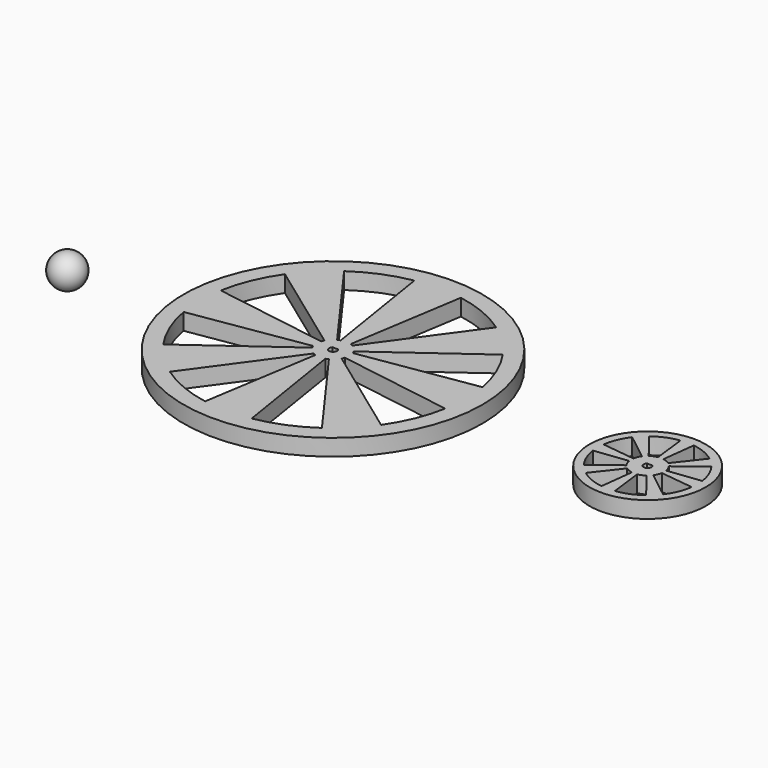
from build123d import *

# Parameters (mm, degrees)
F0_R     = 57.15
F1_DEPTH = 6.35
F0_R_2   = 22.225


with BuildPart() as f1:
    # F0 (on Top) → F1 (new body)
    with BuildSketch(Plane.XY):
        Circle(F0_R)
        with BuildLine():
            ThreePointArc((41.6528860865, 29.080527517), (46.9330802516, 19.4403183641), (50.0160764155, 8.89))
            ThreePointArc((50.0160764155, 8.89), (50.6036396018, 4.4622482054), (50.8, 0))
            ThreePointArc((50.8, 0), (50.6036396018, -4.4622482054), (50.0160764155, -8.89))
            ThreePointArc((50.0160764155, -8.89), (46.9330802516, -19.4403183641), (41.6528860865, -29.080527517))
            ThreePointArc((41.6528860865, -29.080527517), (35.9210244843, -35.9210244843), (29.080527517, -41.6528860865))
            ThreePointArc((29.080527517, -41.6528860865), (19.4403183641, -46.9330802516), (8.89, -50.0160764155))
            ThreePointArc((8.89, -50.0160764155), (0, -50.8), (-8.89, -50.0160764155))
            ThreePointArc((-8.89, -50.0160764155), (-19.4403183641, -46.9330802516), (-29.080527517, -41.6528860865))
            ThreePointArc((-29.080527517, -41.6528860865), (-35.9210244843, -35.9210244843), (-41.6528860865, -29.080527517))
            ThreePointArc((-41.6528860865, -29.080527517), (-46.9330802516, -19.4403183641), (-50.0160764155, -8.89))
            ThreePointArc((-50.0160764155, -8.89), (-50.8, 0), (-50.0160764155, 8.89))
            ThreePointArc((-50.0160764155, 8.89), (-46.9330802516, 19.4403183641), (-41.6528860865, 29.080527517))
            ThreePointArc((-41.6528860865, 29.080527517), (-35.9210244843, 35.9210244843), (-29.080527517, 41.6528860865))
            ThreePointArc((-29.080527517, 41.6528860865), (-19.4403183641, 46.9330802516), (-8.89, 50.0160764155))
            ThreePointArc((-8.89, 50.0160764155), (0, 50.8), (8.89, 50.0160764155))
            ThreePointArc((8.89, 50.0160764155), (19.4403183641, 46.9330802516), (29.080527517, 41.6528860865))
            ThreePointArc((29.080527517, 41.6528860865), (35.9210244843, 35.9210244843), (41.6528860865, 29.080527517))
        make_face(mode=Mode.SUBTRACT)
        with BuildLine():
            ThreePointArc((-5.6303475945, 2.9362707582), (-4.4901280605, 4.4901280605), (-2.9362707582, 5.6303475945))
            Line((-2.9362707582, 5.6303475945), (-29.080527517, 41.6528860865))
            ThreePointArc((-29.080527517, 41.6528860865), (-35.9210244843, 35.9210244843), (-41.6528860865, 29.080527517))
            Line((-41.6528860865, 29.080527517), (-5.6303475945, 2.9362707582))
        make_face()
        with BuildLine():
            ThreePointArc((6.057513929, -1.905), (6.2764525589, -0.9636613904), (6.35, 0))
            ThreePointArc((6.35, 0), (6.2764525589, 0.9636613904), (6.057513929, 1.905))
            ThreePointArc((6.057513929, 1.905), (5.8666350314, 2.4300397955), (5.6303475945, 2.9362707582))
            ThreePointArc((5.6303475945, 2.9362707582), (4.4901280605, 4.4901280605), (2.9362707582, 5.6303475945))
            ThreePointArc((2.9362707582, 5.6303475945), (2.4300397955, 5.8666350314), (1.905, 6.057513929))
            ThreePointArc((1.905, 6.057513929), (0, 6.35), (-1.905, 6.057513929))
            ThreePointArc((-1.905, 6.057513929), (-2.4300397955, 5.8666350314), (-2.9362707582, 5.6303475945))
            ThreePointArc((-2.9362707582, 5.6303475945), (-4.4901280605, 4.4901280605), (-5.6303475945, 2.9362707582))
            ThreePointArc((-5.6303475945, 2.9362707582), (-5.8666350314, 2.4300397955), (-6.057513929, 1.905))
            ThreePointArc((-6.057513929, 1.905), (-6.35, 0), (-6.057513929, -1.905))
            ThreePointArc((-6.057513929, -1.905), (-5.8666350314, -2.4300397955), (-5.6303475945, -2.9362707582))
            ThreePointArc((-5.6303475945, -2.9362707582), (-4.4901280605, -4.4901280605), (-2.9362707582, -5.6303475945))
            ThreePointArc((-2.9362707582, -5.6303475945), (-2.4300397955, -5.8666350314), (-1.905, -6.057513929))
            ThreePointArc((-1.905, -6.057513929), (0, -6.35), (1.905, -6.057513929))
            ThreePointArc((1.905, -6.057513929), (2.4300397955, -5.8666350314), (2.9362707582, -5.6303475945))
            ThreePointArc((2.9362707582, -5.6303475945), (4.4901280605, -4.4901280605), (5.6303475945, -2.9362707582))
            ThreePointArc((5.6303475945, -2.9362707582), (5.8666350314, -2.4300397955), (6.057513929, -1.905))
        make_face()
        with BuildLine():
            ThreePointArc((1.0778522248, 1.05029), (1.3940925737, 0.5669042233), (1.50495, 0))
            ThreePointArc((1.50495, 0), (-0.5669042233, -1.3940925737), (-1.0778522248, 1.05029))
            ThreePointArc((-1.0778522248, 1.05029), (0, 1.50495), (1.0778522248, 1.05029))
        make_face(mode=Mode.SUBTRACT)
        with BuildLine():
            ThreePointArc((-1.905, 6.057513929), (0, 6.35), (1.905, 6.057513929))
            Line((1.905, 6.057513929), (8.89, 50.0160764155))
            ThreePointArc((8.89, 50.0160764155), (0, 50.8), (-8.89, 50.0160764155))
            Line((-8.89, 50.0160764155), (-1.905, 6.057513929))
        make_face()
        with BuildLine():
            ThreePointArc((-1.905, 6.057513929), (0, 6.35), (1.905, 6.057513929))
            Line((1.905, 6.057513929), (8.89, 50.0160764155))
            ThreePointArc((8.89, 50.0160764155), (0, 50.8), (-8.89, 50.0160764155))
            Line((-8.89, 50.0160764155), (-1.905, 6.057513929))
        make_face()
        with BuildLine():
            ThreePointArc((6.057513929, 1.905), (6.2764525589, 0.9636613904), (6.35, 0))
            ThreePointArc((6.35, 0), (6.2764525589, -0.9636613904), (6.057513929, -1.905))
            Line((6.057513929, -1.905), (50.0160764155, -8.89))
            ThreePointArc((50.0160764155, -8.89), (50.6036396018, -4.4622482054), (50.8, 0))
            ThreePointArc((50.8, 0), (50.6036396018, 4.4622482054), (50.0160764155, 8.89))
            Line((50.0160764155, 8.89), (6.057513929, 1.905))
        make_face()
        with BuildLine():
            Line((41.6528860865, -29.080527517), (5.6303475945, -2.9362707582))
            ThreePointArc((5.6303475945, -2.9362707582), (4.4901280605, -4.4901280605), (2.9362707582, -5.6303475945))
            Line((2.9362707582, -5.6303475945), (29.080527517, -41.6528860865))
            ThreePointArc((29.080527517, -41.6528860865), (35.9210244843, -35.9210244843), (41.6528860865, -29.080527517))
        make_face()
        with BuildLine():
            Line((8.89, -50.0160764155), (1.905, -6.057513929))
            ThreePointArc((1.905, -6.057513929), (0, -6.35), (-1.905, -6.057513929))
            Line((-1.905, -6.057513929), (-8.89, -50.0160764155))
            ThreePointArc((-8.89, -50.0160764155), (0, -50.8), (8.89, -50.0160764155))
        make_face()
        with BuildLine():
            Line((-29.080527517, -41.6528860865), (-2.9362707582, -5.6303475945))
            ThreePointArc((-2.9362707582, -5.6303475945), (-4.4901280605, -4.4901280605), (-5.6303475945, -2.9362707582))
            Line((-5.6303475945, -2.9362707582), (-41.6528860865, -29.080527517))
            ThreePointArc((-41.6528860865, -29.080527517), (-35.9210244843, -35.9210244843), (-29.080527517, -41.6528860865))
        make_face()
        with BuildLine():
            ThreePointArc((-6.057513929, -1.905), (-6.35, 0), (-6.057513929, 1.905))
            Line((-6.057513929, 1.905), (-50.0160764155, 8.89))
            ThreePointArc((-50.0160764155, 8.89), (-50.8, 0), (-50.0160764155, -8.89))
            Line((-50.0160764155, -8.89), (-6.057513929, -1.905))
        make_face()
        with BuildLine():
            ThreePointArc((2.9362707582, 5.6303475945), (4.4901280605, 4.4901280605), (5.6303475945, 2.9362707582))
            Line((5.6303475945, 2.9362707582), (41.6528860865, 29.080527517))
            ThreePointArc((41.6528860865, 29.080527517), (35.9210244843, 35.9210244843), (29.080527517, 41.6528860865))
            Line((29.080527517, 41.6528860865), (2.9362707582, 5.6303475945))
        make_face()
        with BuildLine():
            Line((-1.0778522248, 1.05029), (1.0778522248, 1.05029))
            ThreePointArc((1.0778522248, 1.05029), (0, 1.50495), (-1.0778522248, 1.05029))
        make_face()
    extrude(amount=F1_DEPTH)


with BuildPart() as f1b:
    # F0 (on Top) → F1, piece 2 (new body)
    with BuildSketch(Plane.XY):
        with Locations((120.3203499317, 0)):
            Circle(F0_R_2)
        with BuildLine():
            ThreePointArc((135.4665116424, 11.5540592622), (137.9202550261, 7.2901193866), (139.2002572408, 2.54))
            ThreePointArc((139.2002572408, 2.54), (139.3277791929, 1.2728444056), (139.3703499317, 0))
            ThreePointArc((139.3703499317, 0), (139.3277791929, -1.2728444056), (139.2002572408, -2.54))
            ThreePointArc((139.2002572408, -2.54), (137.9202550261, -7.2901193866), (135.4665116424, -11.5540592622))
            ThreePointArc((135.4665116424, -11.5540592622), (133.7907341133, -13.4703841816), (131.8744091939, -15.1461617106))
            ThreePointArc((131.8744091939, -15.1461617106), (127.6104693183, -17.5999050943), (122.8603499317, -18.8799073091))
            ThreePointArc((122.8603499317, -18.8799073091), (120.3203499317, -19.05), (117.7803499317, -18.8799073091))
            ThreePointArc((117.7803499317, -18.8799073091), (113.0302305452, -17.5999050943), (108.7662906695, -15.1461617106))
            ThreePointArc((108.7662906695, -15.1461617106), (106.8499657501, -13.4703841816), (105.1741882211, -11.5540592622))
            ThreePointArc((105.1741882211, -11.5540592622), (102.7204448374, -7.2901193866), (101.4404426226, -2.54))
            ThreePointArc((101.4404426226, -2.54), (101.2703499317, 0), (101.4404426226, 2.54))
            ThreePointArc((101.4404426226, 2.54), (102.7204448374, 7.2901193866), (105.1741882211, 11.5540592622))
            ThreePointArc((105.1741882211, 11.5540592622), (106.8499657501, 13.4703841816), (108.7662906695, 15.1461617106))
            ThreePointArc((108.7662906695, 15.1461617106), (113.0302305452, 17.5999050943), (117.7803499317, 18.8799073091))
            ThreePointArc((117.7803499317, 18.8799073091), (120.3203499317, 19.05), (122.8603499317, 18.8799073091))
            ThreePointArc((122.8603499317, 18.8799073091), (127.6104693183, 17.5999050943), (131.8744091939, 15.1461617106))
            ThreePointArc((131.8744091939, 15.1461617106), (133.7907341133, 13.4703841816), (135.4665116424, 11.5540592622))
        make_face(mode=Mode.SUBTRACT)
        with BuildLine():
            ThreePointArc((126.5885429728, -1.016), (126.6498651505, -0.5096440862), (126.6703499317, 0))
            ThreePointArc((126.6703499317, 0), (126.6498651505, 0.5096440862), (126.5885429728, 1.016))
            ThreePointArc((126.5885429728, 1.016), (126.1869849632, 2.4300397955), (125.4710522265, 3.7138613154))
            ThreePointArc((125.4710522265, 3.7138613154), (124.8104779923, 4.4901280605), (124.0342112472, 5.1507022948))
            ThreePointArc((124.0342112472, 5.1507022948), (122.7503897272, 5.8666350314), (121.3363499317, 6.2681930411))
            ThreePointArc((121.3363499317, 6.2681930411), (120.3203499317, 6.35), (119.3043499317, 6.2681930411))
            ThreePointArc((119.3043499317, 6.2681930411), (117.8903101362, 5.8666350314), (116.6064886163, 5.1507022948))
            ThreePointArc((116.6064886163, 5.1507022948), (115.8302218712, 4.4901280605), (115.1696476369, 3.7138613154))
            ThreePointArc((115.1696476369, 3.7138613154), (114.4537149003, 2.4300397955), (114.0521568907, 1.016))
            ThreePointArc((114.0521568907, 1.016), (113.9703499317, 0), (114.0521568907, -1.016))
            ThreePointArc((114.0521568907, -1.016), (114.4537149003, -2.4300397955), (115.1696476369, -3.7138613154))
            ThreePointArc((115.1696476369, -3.7138613154), (115.8302218712, -4.4901280605), (116.6064886163, -5.1507022948))
            ThreePointArc((116.6064886163, -5.1507022948), (117.8903101362, -5.8666350314), (119.3043499317, -6.2681930411))
            ThreePointArc((119.3043499317, -6.2681930411), (120.3203499317, -6.35), (121.3363499317, -6.2681930411))
            ThreePointArc((121.3363499317, -6.2681930411), (122.7503897272, -5.8666350314), (124.0342112472, -5.1507022948))
            ThreePointArc((124.0342112472, -5.1507022948), (124.8104779923, -4.4901280605), (125.4710522265, -3.7138613154))
            ThreePointArc((125.4710522265, -3.7138613154), (126.1869849632, -2.4300397955), (126.5885429728, -1.016))
        make_face()
        with BuildLine():
            ThreePointArc((121.3982021565, 1.05029), (121.7144425054, 0.5669042233), (121.8252999317, 0))
            ThreePointArc((121.8252999317, 0), (119.7534457084, -1.3940925737), (119.242497707, 1.05029))
            ThreePointArc((119.242497707, 1.05029), (120.3203499317, 1.50495), (121.3982021565, 1.05029))
        make_face(mode=Mode.SUBTRACT)
        with BuildLine():
            ThreePointArc((119.3043499317, 6.2681930411), (120.3203499317, 6.35), (121.3363499317, 6.2681930411))
            Line((121.3363499317, 6.2681930411), (122.8603499317, 18.8799073091))
            ThreePointArc((122.8603499317, 18.8799073091), (120.3203499317, 19.05), (117.7803499317, 18.8799073091))
            Line((117.7803499317, 18.8799073091), (119.3043499317, 6.2681930411))
        make_face()
        with BuildLine():
            ThreePointArc((115.1696476369, 3.7138613154), (115.8302218712, 4.4901280605), (116.6064886163, 5.1507022948))
            Line((116.6064886163, 5.1507022948), (108.7662906695, 15.1461617106))
            ThreePointArc((108.7662906695, 15.1461617106), (106.8499657501, 13.4703841816), (105.1741882211, 11.5540592622))
            Line((105.1741882211, 11.5540592622), (115.1696476369, 3.7138613154))
        make_face()
        with BuildLine():
            ThreePointArc((114.0521568907, -1.016), (113.9703499317, 0), (114.0521568907, 1.016))
            Line((114.0521568907, 1.016), (101.4404426226, 2.54))
            ThreePointArc((101.4404426226, 2.54), (101.2703499317, 0), (101.4404426226, -2.54))
            Line((101.4404426226, -2.54), (114.0521568907, -1.016))
        make_face()
        with BuildLine():
            Line((108.7662906695, -15.1461617106), (116.6064886163, -5.1507022948))
            ThreePointArc((116.6064886163, -5.1507022948), (115.8302218712, -4.4901280605), (115.1696476369, -3.7138613154))
            Line((115.1696476369, -3.7138613154), (105.1741882211, -11.5540592622))
            ThreePointArc((105.1741882211, -11.5540592622), (106.8499657501, -13.4703841816), (108.7662906695, -15.1461617106))
        make_face()
        with BuildLine():
            Line((122.8603499317, -18.8799073091), (121.3363499317, -6.2681930411))
            ThreePointArc((121.3363499317, -6.2681930411), (120.3203499317, -6.35), (119.3043499317, -6.2681930411))
            Line((119.3043499317, -6.2681930411), (117.7803499317, -18.8799073091))
            ThreePointArc((117.7803499317, -18.8799073091), (120.3203499317, -19.05), (122.8603499317, -18.8799073091))
        make_face()
        with BuildLine():
            Line((135.4665116424, -11.5540592622), (125.4710522265, -3.7138613154))
            ThreePointArc((125.4710522265, -3.7138613154), (124.8104779923, -4.4901280605), (124.0342112472, -5.1507022948))
            Line((124.0342112472, -5.1507022948), (131.8744091939, -15.1461617106))
            ThreePointArc((131.8744091939, -15.1461617106), (133.7907341133, -13.4703841816), (135.4665116424, -11.5540592622))
        make_face()
        with BuildLine():
            ThreePointArc((126.5885429728, 1.016), (126.6498651505, 0.5096440862), (126.6703499317, 0))
            ThreePointArc((126.6703499317, 0), (126.6498651505, -0.5096440862), (126.5885429728, -1.016))
            Line((126.5885429728, -1.016), (139.2002572408, -2.54))
            ThreePointArc((139.2002572408, -2.54), (139.3277791929, -1.2728444056), (139.3703499317, 0))
            ThreePointArc((139.3703499317, 0), (139.3277791929, 1.2728444056), (139.2002572408, 2.54))
            Line((139.2002572408, 2.54), (126.5885429728, 1.016))
        make_face()
        with BuildLine():
            ThreePointArc((124.0342112472, 5.1507022948), (124.8104779923, 4.4901280605), (125.4710522265, 3.7138613154))
            Line((125.4710522265, 3.7138613154), (135.4665116424, 11.5540592622))
            ThreePointArc((135.4665116424, 11.5540592622), (133.7907341133, 13.4703841816), (131.8744091939, 15.1461617106))
            Line((131.8744091939, 15.1461617106), (124.0342112472, 5.1507022948))
        make_face()
        with BuildLine():
            Line((119.242497707, 1.05029), (121.3982021565, 1.05029))
            ThreePointArc((121.3982021565, 1.05029), (120.3203499317, 1.50495), (119.242497707, 1.05029))
        make_face()
    extrude(amount=F1_DEPTH)


with BuildPart() as f2:
    # F0 (on Top) → F2 (revolve)
    with BuildSketch(Plane.XY):
        with BuildLine():
            Line((-107.95, 0), (-95.25, 0))
            ThreePointArc((-95.25, 0), (-101.6, 6.35), (-107.95, 0))
        make_face()
    revolve(axis=Axis((-101.6, 0, 0), (1, 0, 0)))


solid = Compound([f1.part, f1b.part, f2.part])
